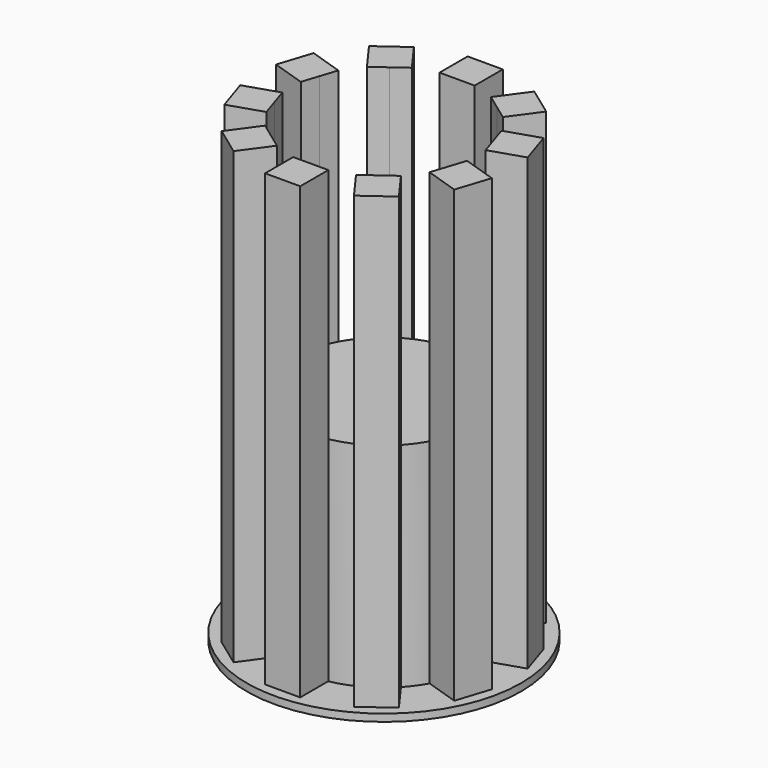
from build123d import *

# Parameters (mm, degrees)
F1_DEPTH = 120
F2_DEPTH = 250
F3_R     = 75
F4_DEPTH = 4


with BuildPart() as f1:
    # F0 (on Top) → F1 (new body)
    with BuildSketch(Plane.XY):
        with BuildLine():
            ThreePointArc((47.552826, -15.45085), (49.384417, -7.821723), (50, 0))
            ThreePointArc((50, 0), (49.384417, 7.821723), (47.552826, 15.45085))
            ThreePointArc((47.552826, 15.45085), (40.45085, 29.389263), (29.389262, 40.45085))
            ThreePointArc((29.389262, 40.45085), (15.450849, 47.552826), (0, 50))
            ThreePointArc((0, 50), (-15.45085, 47.552826), (-29.389262, 40.45085))
            ThreePointArc((-29.389262, 40.45085), (-40.45085, 29.389263), (-47.552826, 15.45085))
            ThreePointArc((-47.552826, 15.45085), (-50, 1e-06), (-47.552826, -15.450849))
            ThreePointArc((-47.552826, -15.450849), (-40.45085, -29.389262), (-29.389263, -40.450849))
            ThreePointArc((-29.389263, -40.450849), (-15.45085, -47.552826), (0, -50))
            ThreePointArc((0, -50), (15.450849, -47.552826), (29.389262, -40.45085))
            ThreePointArc((29.389262, -40.45085), (40.45085, -29.389263), (47.552826, -15.45085))
        make_face()
    extrude(amount=F1_DEPTH)

    # F0 (on Top) → F2 (join)
    with BuildSketch(Plane.XY):
        Polygon((-21.622699, -46.093588), (-29.389263, -40.450849), (-37.155826, -34.808111), (-48.441303, -50.341238), (-32.908176, -61.626714), align=None)
        Polygon((-44.586263, -24.580992), (-47.552826, -15.450849), (-50.519389, -6.320707), (-68.779674, -12.253833), (-62.846548, -30.514119), align=None)
        Polygon((9.6, -50), (0, -50), (-9.6, -50), (-9.6, -69.2), (9.6, -69.2), align=None)
        Polygon((37.155826, -34.808111), (29.389262, -40.45085), (21.622699, -46.093588), (32.908176, -61.626714), (48.441303, -50.341238), align=None)
        Polygon((50.519389, -6.320707), (47.552826, -15.45085), (44.586263, -24.580992), (62.846548, -30.514119), (68.779674, -12.253833), align=None)
        Polygon((44.586263, 24.580992), (47.552826, 15.45085), (50.519389, 6.320707), (68.779674, 12.253833), (62.846548, 30.514119), align=None)
        Polygon((21.622699, 46.093588), (29.389262, 40.45085), (37.155826, 34.808111), (48.441303, 50.341238), (32.908176, 61.626714), align=None)
        Polygon((-9.6, 50), (0, 50), (9.6, 50), (9.6, 69.2), (-9.6, 69.2), align=None)
        Polygon((-37.155826, 34.808111), (-29.389262, 40.45085), (-21.622699, 46.093588), (-32.908176, 61.626714), (-48.441303, 50.341238), align=None)
        Polygon((-50.519389, 6.320707), (-47.552826, 15.45085), (-44.586263, 24.580992), (-62.846548, 30.514119), (-68.779674, 12.253833), align=None)
    extrude(amount=F2_DEPTH)


with BuildPart() as f4:
    # F3 (on Top) → F4 (new body)
    with BuildSketch(Plane.XY):
        Circle(F3_R)
        with BuildLine():
            Line((9.6, 69.2), (9.6, 50.088322))
            ThreePointArc((9.6, 50.088322), (15.759867, 48.503882), (21.674614, 46.165042))
            Line((21.674614, 46.165042), (32.908176, 61.626714))
            Line((32.908176, 61.626714), (48.441303, 50.341238))
            Line((48.441303, 50.341238), (37.20774, 34.879565))
            ThreePointArc((37.20774, 34.879565), (41.259867, 29.977048), (44.670262, 24.608285))
            Line((44.670262, 24.608285), (62.846548, 30.514119))
            Line((62.846548, 30.514119), (68.779674, 12.253833))
            Line((68.779674, 12.253833), (50.603388, 6.348))
            ThreePointArc((50.603388, 6.348), (50.90075, 3.180189), (51, 0))
            ThreePointArc((51, 0), (50.90075, -3.180189), (50.603388, -6.348))
            Line((50.603388, -6.348), (68.779674, -12.253833))
            Line((68.779674, -12.253833), (62.846548, -30.514119))
            Line((62.846548, -30.514119), (44.670262, -24.608285))
            ThreePointArc((44.670262, -24.608285), (41.259867, -29.977048), (37.20774, -34.879565))
            Line((37.20774, -34.879565), (48.441303, -50.341238))
            Line((48.441303, -50.341238), (32.908176, -61.626714))
            Line((32.908176, -61.626714), (21.674614, -46.165042))
            ThreePointArc((21.674614, -46.165042), (15.759867, -48.503882), (9.6, -50.088322))
            Line((9.6, -50.088322), (9.6, -69.2))
            Line((9.6, -69.2), (-9.6, -69.2))
            Line((-9.6, -69.2), (-9.6, -50.088322))
            ThreePointArc((-9.6, -50.088322), (-15.759867, -48.503882), (-21.674614, -46.165042))
            Line((-21.674614, -46.165042), (-32.908176, -61.626714))
            Line((-32.908176, -61.626714), (-48.441303, -50.341238))
            Line((-48.441303, -50.341238), (-37.20774, -34.879565))
            ThreePointArc((-37.20774, -34.879565), (-41.259867, -29.977048), (-44.670262, -24.608285))
            Line((-44.670262, -24.608285), (-62.846548, -30.514119))
            Line((-62.846548, -30.514119), (-68.779674, -12.253833))
            Line((-68.779674, -12.253833), (-50.603388, -6.348))
            ThreePointArc((-50.603388, -6.348), (-51, 0), (-50.603388, 6.348))
            Line((-50.603388, 6.348), (-68.779674, 12.253833))
            Line((-68.779674, 12.253833), (-62.846548, 30.514119))
            Line((-62.846548, 30.514119), (-44.670262, 24.608285))
            ThreePointArc((-44.670262, 24.608285), (-41.259867, 29.977048), (-37.20774, 34.879565))
            Line((-37.20774, 34.879565), (-48.441303, 50.341238))
            Line((-48.441303, 50.341238), (-32.908176, 61.626714))
            Line((-32.908176, 61.626714), (-21.674614, 46.165042))
            ThreePointArc((-21.674614, 46.165042), (-15.759867, 48.503882), (-9.6, 50.088322))
            Line((-9.6, 50.088322), (-9.6, 69.2))
            Line((-9.6, 69.2), (9.6, 69.2))
        make_face(mode=Mode.SUBTRACT)
    extrude(amount=F4_DEPTH)


solid = Compound([f1.part, f4.part])
